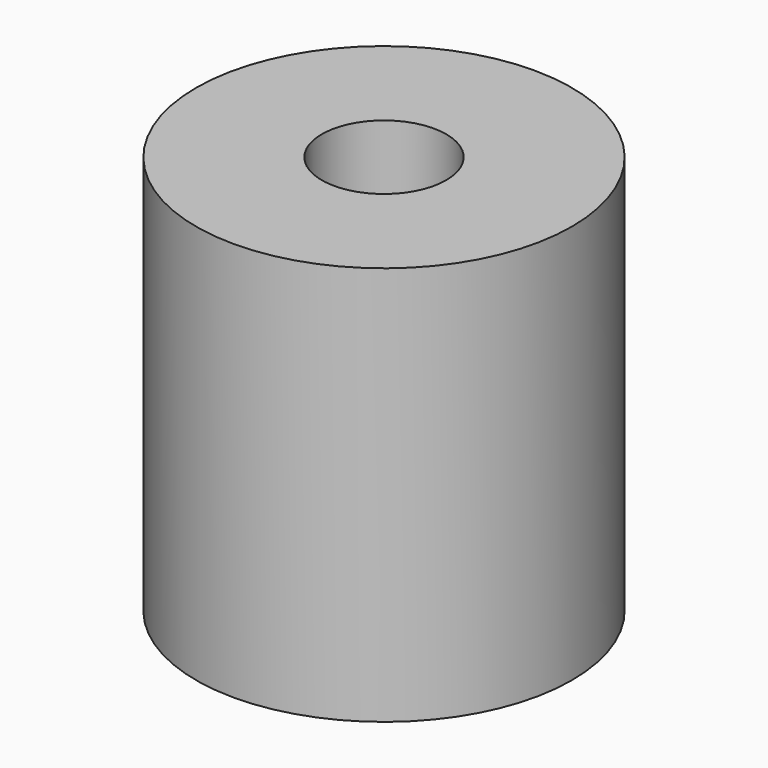
from build123d import *

# Parameters (mm, degrees)
CYLINDER581_R     = 2.65
CYLINDER581_DEPTH = 40
CYLINDER577_R     = 8
CYLINDER577_DEPTH = 17


with BuildPart() as obj1:
    # Cylinder581 → Cylinder581 (new body)
    with BuildSketch(Plane(origin=(0, 83, 232), x_dir=(1, 0, 0), z_dir=(0, 0, 1))):
        Circle(CYLINDER581_R)
    extrude(amount=CYLINDER581_DEPTH)


with BuildPart() as cut220:
    # Cylinder577 → Cylinder577 (new body)
    with BuildSketch(Plane(origin=(0, 83, 252), x_dir=(1, 0, 0), z_dir=(0, 0, 1))):
        Circle(CYLINDER577_R)
    extrude(amount=CYLINDER577_DEPTH)

    # Cut220: cut obj1
    add(obj1.part, mode=Mode.SUBTRACT)


solid = cut220.part
